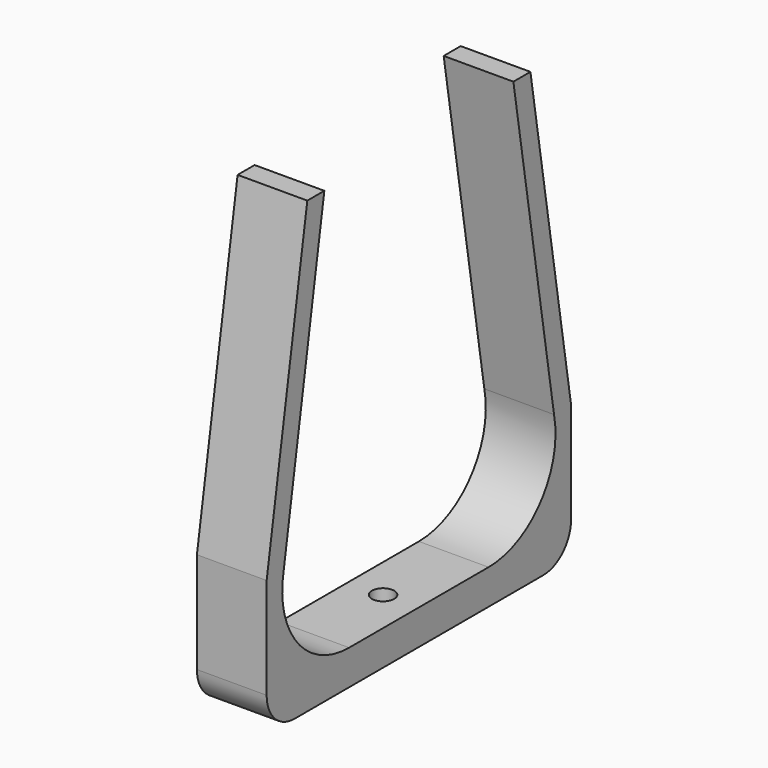
from build123d import *

# Parameters (mm, degrees)
PAD_DEPTH    = 10
FILLET_R     = 5
SKETCH001_R  = 1.6
POCKET_DEPTH = 5.001


with BuildPart() as part:
    # Sketch → Pad (new body)
    with BuildSketch(Plane.YZ):
        with BuildLine():
            Line((-12.5, -14.5), (12.5, -14.5))
            ThreePointArc((12.5, -14.5), (21.827379, -10.049834), (24.236695, 0))
            Line((24.236695, 0), (16.946495, 45))
            Line((16.946495, 45), (20, 45))
            Line((27.290199, 0), (20, 45))
            Line((27.290199, -19.5), (27.290199, 0))
            Line((-27.290199, -19.5), (27.290199, -19.5))
            Line((-27.290199, 0), (-27.290199, -19.5))
            Line((-27.290199, 0), (-20, 45))
            Line((-20, 45), (-16.946495, 45))
            Line((-24.236695, 0), (-16.946495, 45))
            ThreePointArc((-24.236695, 0), (-21.827379, -10.049834), (-12.5, -14.5))
        make_face()
    extrude(amount=PAD_DEPTH)

    # Fillet
    fillet_edges = [part.edges().sort_by_distance(p)[0] for p in [
        (5, -27.290199, -19.5),
        (5, 27.290199, -19.5),
    ]]
    fillet(fillet_edges, radius=FILLET_R)

    # Sketch001 (on Face13 of Fillet) → Pocket (cut, through all)
    with BuildSketch(Plane(origin=(0, 0, -14.5), x_dir=(0, -1, 0), z_dir=(0, 0, 1))):
        with Locations((0.11428, 4.954288)):
            Circle(SKETCH001_R)
    extrude(amount=-POCKET_DEPTH, mode=Mode.SUBTRACT)


solid = part.part
